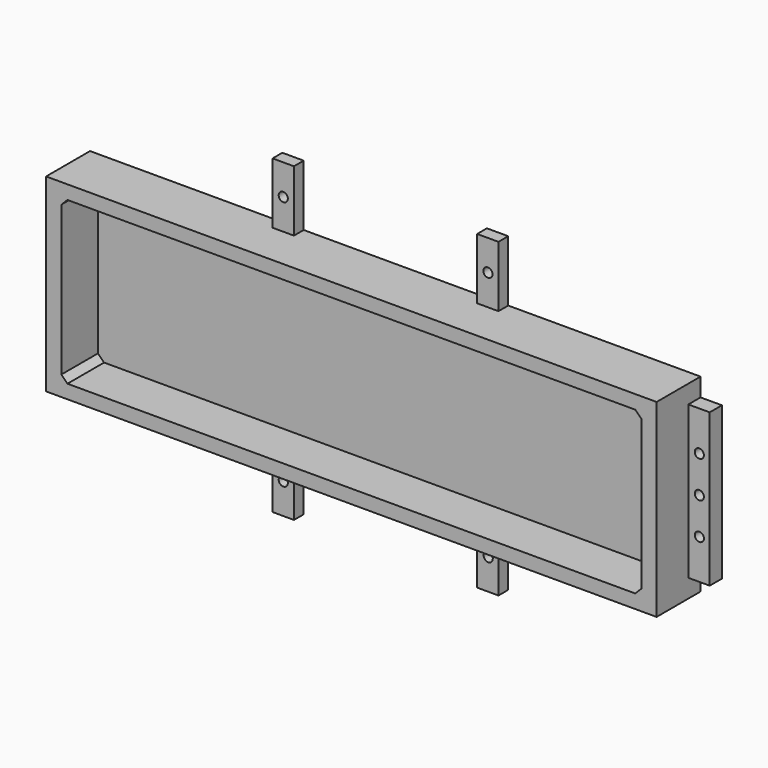
from build123d import *

# Parameters (mm, degrees)
F0_W      = 200
F0_H      = 62
F1_DEPTH  = 15
F2_W      = 200
F2_H      = 62
F3_DEPTH  = 3
F4_W      = 5
F4_H      = 25
F5_DEPTH  = 7
F6_R      = 1.5
F7_DEPTH  = 12.6
F8_W      = 5
F8_H      = 25
F9_DEPTH  = 7
F10_R     = 1.5
F11_DEPTH = 25
F12_W     = 7
F12_H     = 4
F13_DEPTH = 20
F14_R     = 1.5
F15_DEPTH = 25
F16_W     = 7
F16_H     = 4
F17_DEPTH = 20
F18_R     = 1.5
F19_DEPTH = 25


with BuildPart() as f1:
    # F0 (on Front) → F1 (new body)
    with BuildSketch(Plane.XZ):
        Rectangle(F0_W, F0_H)
        Polygon((95, -24.5), (95, -26.5), (93, -26.5), (-93, -26.5), (-95, -26.5), (-95, -24.5), (-95, 24.5), (-95, 26.5), (-93, 26.5), (93, 26.5), (95, 26.5), (95, 24.5), align=None, mode=Mode.SUBTRACT)
        Polygon((-95, -26.5), (-93, -26.5), (-95, -24.5), align=None)
        Polygon((-95, 26.5), (-95, 24.5), (-93, 26.5), align=None)
        Polygon((93, -26.5), (95, -26.5), (95, -24.5), align=None)
        Polygon((93, 26.5), (95, 24.5), (95, 26.5), align=None)
    extrude(amount=F1_DEPTH)

    # F2 (on face) → F3 (join)
    with BuildSketch(Plane(origin=(0, 0, 0), x_dir=(-1, 0, 0), z_dir=(0, 1, 0))):
        Rectangle(F2_W, F2_H)
        Polygon((95, 24.5), (95, -24.5), (93, -26.5), (-93, -26.5), (-95, -24.5), (-95, 24.5), (-93, 26.5), (93, 26.5), align=None, mode=Mode.SUBTRACT)
        Polygon((93, -26.5), (95, -24.5), (95, 24.5), (93, 26.5), (-93, 26.5), (-95, 24.5), (-95, -24.5), (-93, -26.5), align=None)
    extrude(amount=F3_DEPTH)

    # F4 (on face) → F5 (join)
    with BuildSketch(Plane(origin=(-100, 0, 0), x_dir=(0, -1, 0), z_dir=(-1, 0, 0))):
        with Locations((-0.5, 12.5)):
            Rectangle(F4_W, F4_H)
        with Locations((-0.5, -12.5)):
            Rectangle(F4_W, F4_H)
    extrude(amount=F5_DEPTH)

    # F6 (on face) → F7 (cut)
    with BuildSketch(Plane.XZ.offset(2)):
        with Locations((-103.5, 12)):
            Circle(F6_R)
        with Locations((-103.5, 0)):
            Circle(F6_R)
        with Locations((-103.5, -12)):
            Circle(F6_R)
    extrude(amount=-F7_DEPTH, mode=Mode.SUBTRACT)

    # F8 (on face) → F9 (join)
    with BuildSketch(Plane.YZ.offset(100)):
        with Locations((0.5, 12.5)):
            Rectangle(F8_W, F8_H)
        with Locations((0.5, -12.5)):
            Rectangle(F8_W, F8_H)
    extrude(amount=F9_DEPTH)

    # F10 (on face) → F11 (cut)
    with BuildSketch(Plane.XZ.offset(2)):
        with Locations((103.6, 0)):
            Circle(F10_R)
        with Locations((103.6, 12)):
            Circle(F10_R)
        with Locations((103.6, -12)):
            Circle(F10_R)
    extrude(amount=-F11_DEPTH, mode=Mode.SUBTRACT)

    # F12 (on face) → F13 (join)
    with BuildSketch(Plane.XY.offset(31)):
        with Locations((-33.5, 1)):
            Rectangle(F12_W, F12_H)
        with Locations((33.5, 1)):
            Rectangle(F12_W, F12_H)
    extrude(amount=F13_DEPTH)

    # F14 (on face) → F15 (cut)
    with BuildSketch(Plane.XZ.offset(1)):
        with Locations((-33.5, 41)):
            Circle(F14_R)
        with Locations((33.5457399487, 41)):
            Circle(F14_R)
    extrude(amount=-F15_DEPTH, mode=Mode.SUBTRACT)

    # F16 (on face) → F17 (join)
    with BuildSketch(Plane(origin=(0, 0, -31), x_dir=(1, 0, 0), z_dir=(0, 0, -1))):
        with Locations((-33.5, -1)):
            Rectangle(F16_W, F16_H)
        with Locations((33.5, -1)):
            Rectangle(F16_W, F16_H)
    extrude(amount=F17_DEPTH)

    # F18 (on face) → F19 (cut)
    with BuildSketch(Plane.XZ.offset(1)):
        with Locations((-33.5, -41)):
            Circle(F18_R)
        with Locations((33.6346849799, -41)):
            Circle(F18_R)
    extrude(amount=-F19_DEPTH, mode=Mode.SUBTRACT)


solid = f1.part
